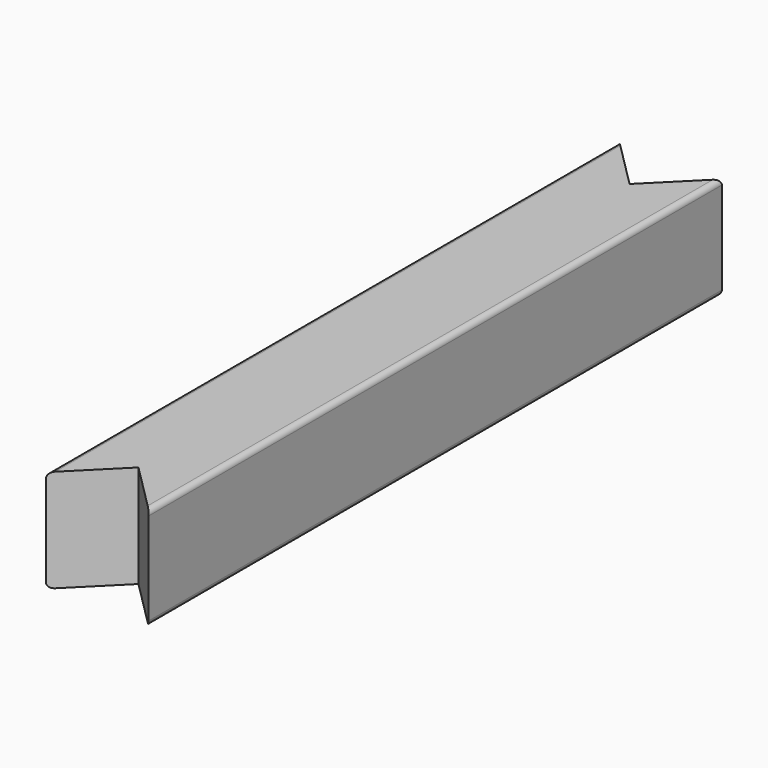
from build123d import *

# Parameters (mm, degrees)
F1_DEPTH = 100
F2_R     = 5


with BuildPart() as f1:
    # F0 (on Top) → F1 (new body)
    with BuildSketch(Plane.XY):
        Polygon((-49.999979, 349.065976), (-50.000021, -349.066024), (0, -299.066), (49.999979, -349.065976), (50.000021, 349.066024), (0, 299.066), align=None)
    extrude(amount=F1_DEPTH)

    # F2
    f2_edges = [f1.edges().sort_by_distance(p)[0] for p in [
        (50, 2.4e-05, 100),
        (50, 2.4e-05, 0),
        (-50, -2.4e-05, 100),
        (-50, -2.4e-05, 0),
    ]]
    fillet(f2_edges, radius=F2_R)


solid = f1.part
